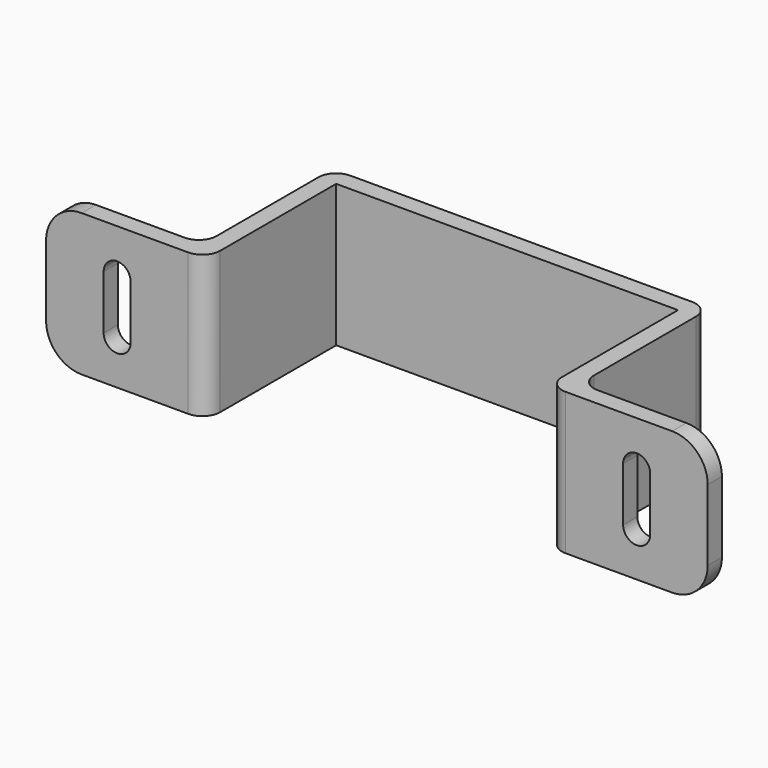
from build123d import *

# Parameters (mm, degrees)
F1_DEPTH = 25.4
F2_R     = 3.175
F4_DEPTH = 32.259
F5_R     = 6.35
F6_R     = 3.175


with BuildPart() as f1:
    # F0 (on Top) → F1 (new body)
    with BuildSketch(Plane.XY):
        Polygon((-30.5435, 29.083), (0, 29.083), (30.5435, 29.083), (30.5435, 0), (59.1185, 0), (59.1185, 3.175), (33.7185, 3.175), (33.7185, 32.258), (0, 32.258), (-33.7185, 32.258), (-33.7185, 3.175), (-59.1185, 3.175), (-59.1185, 0), (-30.5435, 0), align=None)
    extrude(amount=F1_DEPTH)

    # F2
    f2_edges = [f1.edges().sort_by_distance(p)[0] for p in [
        (-30.5435, 0, 12.7),
        (30.5435, 0, 12.7),
    ]]
    fillet(f2_edges, radius=F2_R)

    # F3 (on Front) → F4 (cut, through all)
    with BuildSketch(Plane.XZ):
        with BuildLine():
            ThreePointArc((-48.8315, 7.8105), (-46.4185, 5.3975), (-44.0055, 7.8105))
            Line((-44.0055, 7.8105), (-44.0055, 17.4625))
            ThreePointArc((-44.0055, 17.4625), (-46.4185, 19.8755), (-48.8315, 17.4625))
            Line((-48.8315, 17.4625), (-48.8315, 7.8105))
        make_face()
        with BuildLine():
            Line((44.0055, 17.4625), (44.0055, 7.8105))
            ThreePointArc((44.0055, 7.8105), (46.4185, 5.3975), (48.8315, 7.8105))
            Line((48.8315, 7.8105), (48.8315, 17.4625))
            ThreePointArc((48.8315, 17.4625), (46.4185, 19.8755), (44.0055, 17.4625))
        make_face()
    extrude(amount=-F4_DEPTH, mode=Mode.SUBTRACT)

    # F5
    f5_edges = [f1.edges().sort_by_distance(p)[0] for p in [
        (-59.1185, 1.5875, 0),
        (-59.1185, 1.5875, 25.4),
        (59.1185, 1.5875, 25.4),
        (59.1185, 1.5875, 0),
    ]]
    fillet(f5_edges, radius=F5_R)

    # F6
    f6_edges = [f1.edges().sort_by_distance(p)[0] for p in [
        (-33.7185, 3.175, 12.7),
        (-33.7185, 32.258, 12.7),
        (33.7185, 32.258, 12.7),
        (33.7185, 3.175, 12.7),
    ]]
    fillet(f6_edges, radius=F6_R)


solid = f1.part
